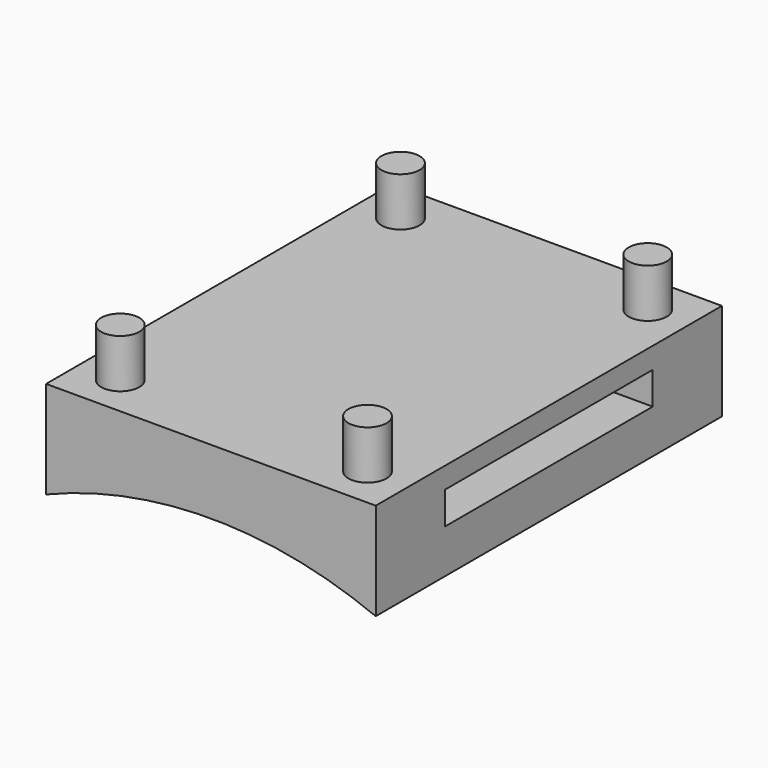
from build123d import *

# Parameters (mm, degrees)
F1_DEPTH = 26.67
F2_W     = 16
F2_H     = 2
F3_DEPTH = 20.32
F4_R     = 1.175
F5_DEPTH = 3


with BuildPart() as f1:
    # F0 (on Front) → F1 (new body)
    with BuildSketch(Plane.XZ):
        with BuildLine():
            ThreePointArc((-10.16, -3.7), (0, -1.7), (10.16, -3.7))
            Line((10.16, -3.7), (10.16, 2.3))
            Line((10.16, 2.3), (-10.16, 2.3))
            Line((-10.16, 2.3), (-10.16, -3.7))
        make_face()
    extrude(amount=F1_DEPTH)

    # F2 (on face) → F3 (cut, through all)
    with BuildSketch(Plane.YZ.offset(10.16)):
        with Locations((-13.335, 0)):
            Rectangle(F2_W, F2_H)
    extrude(amount=-F3_DEPTH, mode=Mode.SUBTRACT)

    # F4 (on face) → F5 (join)
    with BuildSketch(Plane.XY.offset(2.3)):
        with Locations((7.62, -2.54)):
            Circle(F4_R)
        with Locations((7.62, -24.13)):
            Circle(F4_R)
        with Locations((-7.62, -2.54)):
            Circle(F4_R)
        with Locations((-7.62, -24.13)):
            Circle(F4_R)
    extrude(amount=F5_DEPTH)


solid = f1.part
